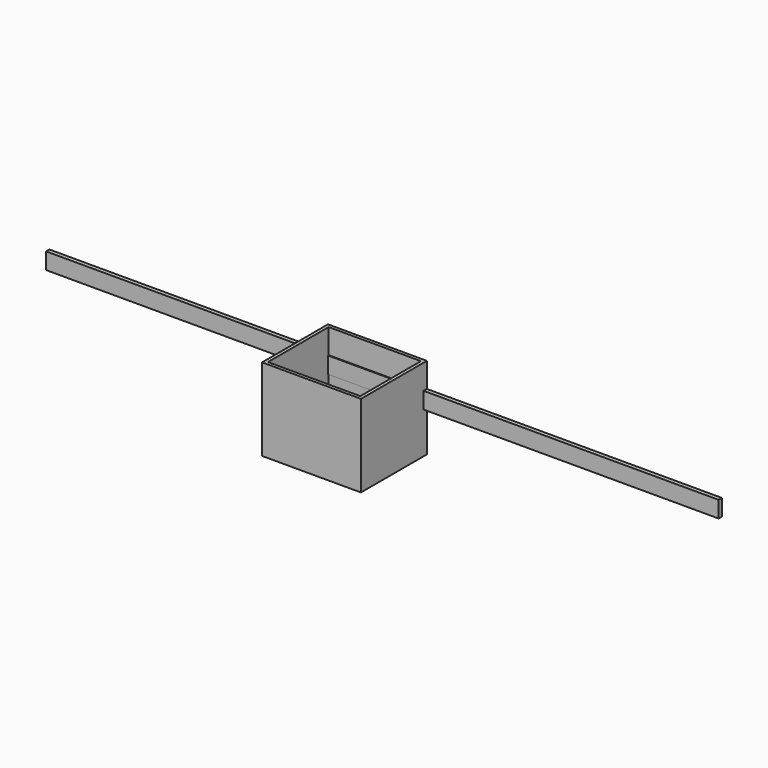
from build123d import *

# Parameters (mm, degrees)
F0_W     = 120
F0_H     = 100
F1_DEPTH = 100
F2_T     = -4
F3_W     = 338.13595726
F3_H     = 20
F3_W_2   = 120
F3_W_3   = 358.1296569666
F4_DEPTH = 5


with BuildPart() as f1:
    # F0 (on Top) → F1 (new body)
    with BuildSketch(Plane.XY):
        with Locations((-34.0641250794, 31.4384140074)):
            Rectangle(F0_W, F0_H)
    extrude(amount=F1_DEPTH)

    # F2
    f2_openings = [f1.faces().sort_by_distance(p)[0] for p in [
        (-34.064125, 31.438414, 100),
    ]]
    offset(amount=F2_T, openings=f2_openings)

    # F3 (on face) → F4 (join)
    with BuildSketch(Plane(origin=(0, 81.4384140074, 0), x_dir=(-1, 0, 0), z_dir=(0, 1, 0))):
        with Locations((263.1321037094, 60)):
            Rectangle(F3_W, F3_H)
        with Locations((34.0641250794, 60)):
            Rectangle(F3_W_2, F3_H)
        with Locations((-205.0007034039, 60)):
            Rectangle(F3_W_3, F3_H)
    extrude(amount=-F4_DEPTH)


solid = f1.part
